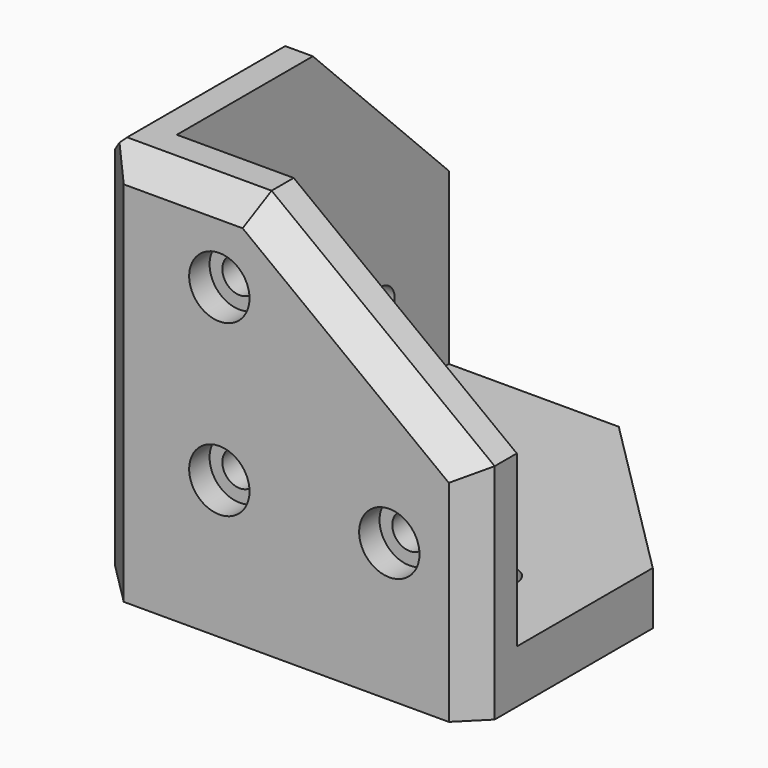
from build123d import *

# Parameters (mm, degrees)
F1_DEPTH  = 6.25
F3_DEPTH  = 6.25
F5_DEPTH  = 6.25
F6_R      = 2.05
F6_R_2    = 3.05
F7_DEPTH  = 25
F8_R      = 2.05
F9_DEPTH  = 25
F10_R     = 2.05
F11_DEPTH = 25
F13_R     = 3.55
F14_DEPTH = 3
F15_R     = 3.55
F16_DEPTH = 3
F17_R     = 3.55
F17_R_2   = 4.55
F18_DEPTH = 3
F19_SIZE  = 5
F20_SIZE  = 3


with BuildPart() as f1:
    # F0 (on Top) → F1 (new body)
    with BuildSketch(Plane.XY):
        Polygon((4.1484118214, 32.5575917727), (-22.1015881786, 32.5575917727), (-22.1015881786, -13.6924082273), (24.1484118214, -13.6924082273), (24.1484118214, 12.5575917727), align=None)
    extrude(amount=F1_DEPTH)

    # F6 (on face) → F7 (cut)
    with BuildSketch(Plane.XY.offset(6.25)):
        with Locations((-5.8515881786, 22.5575917727)):
            Circle(F6_R)
        with Locations((-5.8515881786, 2.5575917727)):
            Circle(F6_R_2)
        with Locations((14.1484118214, 2.5575917727)):
            Circle(F6_R)
    extrude(amount=-F7_DEPTH, mode=Mode.SUBTRACT)


with BuildPart() as f3:
    # F2 (on face) → F3 (new body)
    with BuildSketch(Plane.XZ.offset(13.6924082273)):
        Polygon((-22.1015881786, 46.25), (-22.1015881786, 6.25), (24.1484118214, 6.25), (24.1484118214, 26.25), (-2.1015881786, 46.25), align=None)
    extrude(amount=-F3_DEPTH)

    # F8 (on face) → F9 (cut)
    with BuildSketch(Plane(origin=(0, -7.4424082273, 0), x_dir=(-1, 0, 0), z_dir=(0, 1, 0))):
        with Locations((5.8515881786, 16.25)):
            Circle(F8_R)
        with Locations((-14.1484118214, 16.25)):
            Circle(F8_R)
        with Locations((5.8515881786, 36.25)):
            Circle(F8_R)
    extrude(amount=-F9_DEPTH, mode=Mode.SUBTRACT)


with BuildPart() as f5:
    # F4 (on face) → F5 (new body)
    with BuildSketch(Plane(origin=(-22.1015881786, 0, 0), x_dir=(0, -1, 0), z_dir=(-1, 0, 0))):
        Polygon((-32.5575917727, 6.25), (7.4424082273, 6.25), (7.4424082273, 46.25), (-12.5575917727, 46.25), (-32.5575917727, 26.25), align=None)
    extrude(amount=-F5_DEPTH)

    # F10 (on face) → F11 (cut)
    with BuildSketch(Plane.YZ.offset(-15.8515881786)):
        with Locations((22.5575917727, 16.25)):
            Circle(F10_R)
        with Locations((2.5575917727, 16.25)):
            Circle(F10_R)
        with Locations((2.5575917727, 36.25)):
            Circle(F10_R)
    extrude(amount=-F11_DEPTH, mode=Mode.SUBTRACT)


with BuildPart() as f1_1:
    add(f1.part)

    # F12: union F3, F5
    add(f3.part)
    add(f5.part)

    # F13 (on face) → F14 (cut)
    with BuildSketch(Plane.XZ.offset(13.6924082273)):
        with Locations((-5.8515881786, 36.25)):
            Circle(F13_R)
        with Locations((14.1484118214, 16.25)):
            Circle(F13_R)
        with Locations((-5.8515881786, 16.25)):
            Circle(F13_R)
    extrude(amount=-F14_DEPTH, mode=Mode.SUBTRACT)

    # F15 (on face) → F16 (cut)
    with BuildSketch(Plane(origin=(-22.1015881786, 0, 0), x_dir=(0, -1, 0), z_dir=(-1, 0, 0))):
        with Locations((-2.5575917727, 36.25)):
            Circle(F15_R)
        with Locations((-2.5575917727, 16.25)):
            Circle(F15_R)
        with Locations((-22.5575917727, 16.25)):
            Circle(F15_R)
    extrude(amount=-F16_DEPTH, mode=Mode.SUBTRACT)

    # F17 (on face) → F18 (cut)
    with BuildSketch(Plane(origin=(0, 0, 0), x_dir=(1, 0, 0), z_dir=(0, 0, -1))):
        with Locations((-5.8515881786, -22.5575917727)):
            Circle(F17_R)
        with Locations((-5.8515881786, -2.5575917727)):
            Circle(F17_R_2)
        with Locations((14.1484118214, -2.5575917727)):
            Circle(F17_R)
    extrude(amount=-F18_DEPTH, mode=Mode.SUBTRACT)

    # F19
    f19_edges = [f1_1.edges().sort_by_distance(p)[0] for p in [
        (-22.101588, -13.692408, 23.125),
    ]]
    chamfer(f19_edges, length=F19_SIZE)

    # F20 (call 1 of 2: OpenCascade refuses the feature's edges together)
    f20_edges = [f1_1.edges().sort_by_distance(p)[0] for p in [
        (-9.601588, -13.692408, 46.25),
        (11.023412, -13.692408, 36.25),
        (24.148412, -13.692408, 13.125),
    ]]
    chamfer(f20_edges, length=F20_SIZE)

    # F20#2 (call 2 of 2)
    f20_2_edges = [f1_1.edges().sort_by_distance(p)[0] for p in [
        (-22.101588, 1.932592, 46.25),
        (-22.101588, 22.557592, 36.25),
        (-22.101588, 32.557592, 13.125),
    ]]
    chamfer(f20_2_edges, length=F20_SIZE)


solid = f1_1.part
